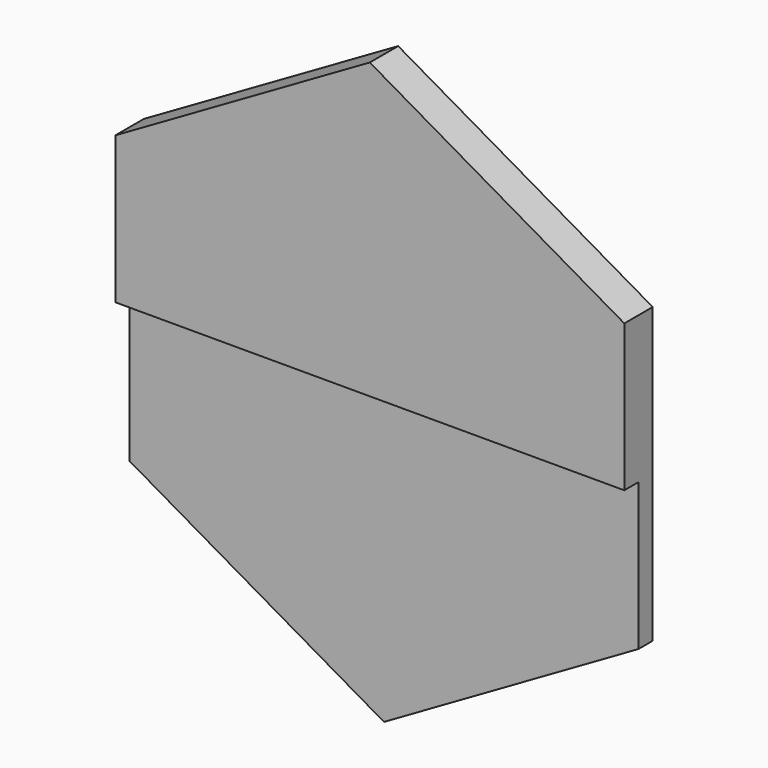
from build123d import *

# Parameters (mm, degrees)
F1_DEPTH = 4
F2_DEPTH = 2


with BuildPart() as f1:
    # F0 (on Front) → F1 (new body)
    with BuildSketch(Plane.XZ):
        Polygon((-28.680651, 16.558781), (-28.680651, 0), (28.680651, 0), (28.680651, 16.558781), (0, 33.117563), align=None)
    extrude(amount=F1_DEPTH)

    # F0 (on Front) → F2 (join)
    with BuildSketch(Plane.XZ):
        Polygon((-28.680651, 0), (-28.680651, -16.558781), (0, -33.117563), (28.680651, -16.558781), (28.680651, 0), align=None)
    extrude(amount=F2_DEPTH)


solid = f1.part
